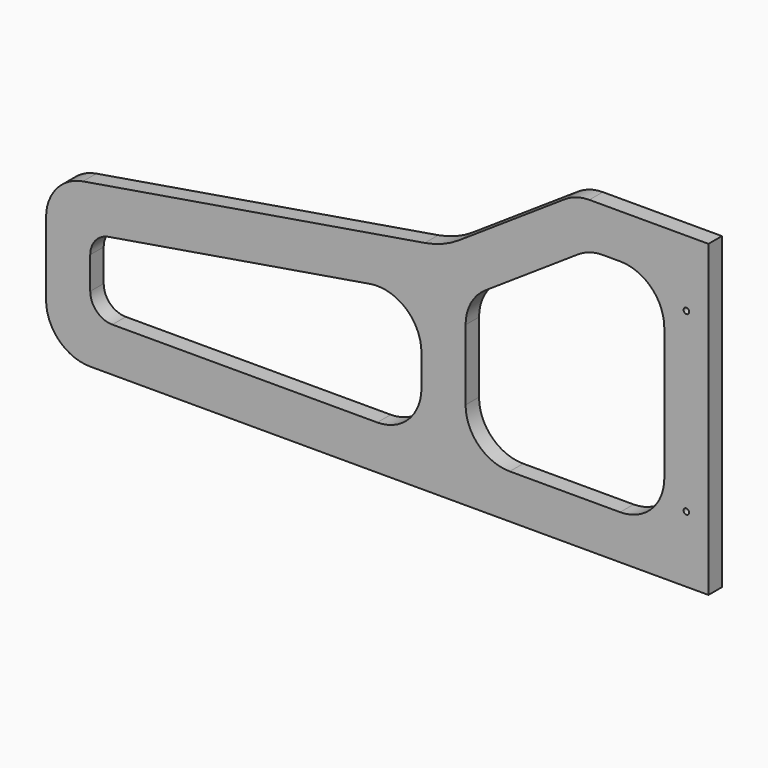
from build123d import *

# Parameters (mm, degrees)
F1_DEPTH = 19.05
F3_DEPTH = 25
F4_R     = 50
F5_R     = 25
F6_R     = 50
F7_R     = 3.175
F8_DEPTH = 25
F9_R     = 100


with BuildPart() as f1:
    # F0 (on Front) → F1 (new body)
    with BuildSketch(Plane.XZ):
        Polygon((-750, 0), (0, 0), (0, 350), (-150, 350), (-300, 250), (-750, 175), align=None)
    extrude(amount=F1_DEPTH)

    # F2 (on face) → F3 (cut)
    with BuildSketch(Plane.XZ.offset(19.05)):
        Polygon((-325, 195.143646), (-700, 132.643646), (-700, 50), (-325, 50), align=None)
        Polygon((-134.861218, 300), (-275, 206.574145), (-275, 50), (-50, 50), (-50, 300), align=None)
    extrude(amount=-F3_DEPTH, mode=Mode.SUBTRACT)

    # F4
    f4_edges = [f1.edges().sort_by_distance(p)[0] for p in [
        (-325, -9.525, 195.143646),
        (-325, -9.525, 50),
        (-275, -9.525, 206.574145),
        (-134.861218, -9.525, 300),
        (-50, -9.525, 300),
        (-50, -9.525, 50),
        (-275, -9.525, 50),
    ]]
    fillet(f4_edges, radius=F4_R)

    # F5
    f5_edges = [f1.edges().sort_by_distance(p)[0] for p in [
        (-700, -9.525, 132.643646),
        (-700, -9.525, 50),
    ]]
    fillet(f5_edges, radius=F5_R)

    # F6
    f6_edges = [f1.edges().sort_by_distance(p)[0] for p in [
        (-750, -9.525, 175),
        (-750, -9.525, 0),
        (-150, -9.525, 350),
    ]]
    fillet(f6_edges, radius=F6_R)

    # F7 (on face) → F8 (cut)
    with BuildSketch(Plane.XZ.offset(19.05)):
        with Locations((-25, 275)):
            Circle(F7_R)
        with Locations((-25, 75)):
            Circle(F7_R)
    extrude(amount=-F8_DEPTH, mode=Mode.SUBTRACT)

    # F9
    f9_edges = [f1.edges().sort_by_distance(p)[0] for p in [
        (-300, -9.525, 250),
    ]]
    fillet(f9_edges, radius=F9_R)


solid = f1.part
